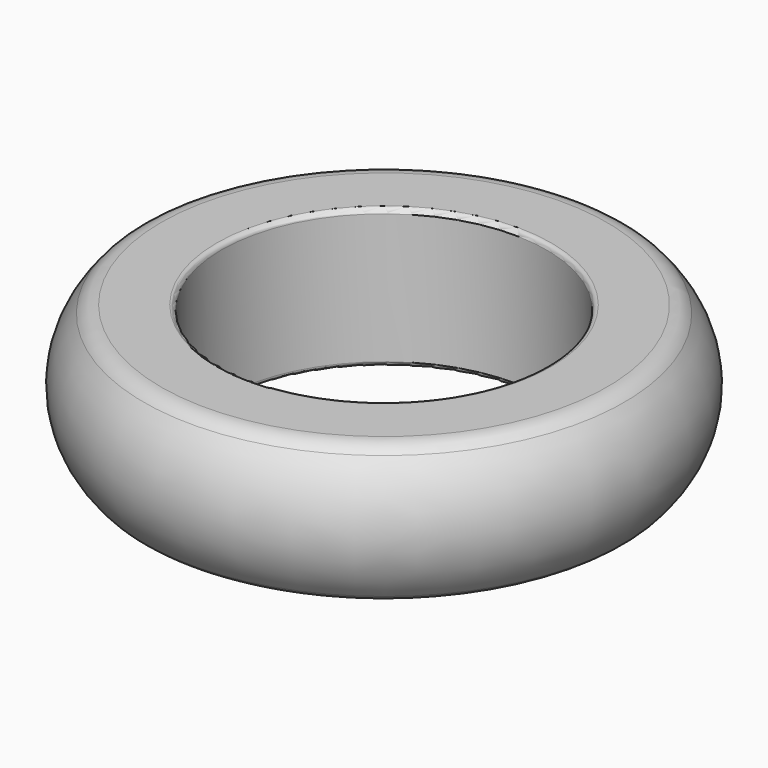
from build123d import *


with BuildPart() as f1:
    # F0 (on Front) → F1 (revolve)
    with BuildSketch(Plane.XZ):
        with BuildLine():
            ThreePointArc((-0.2, 0), (-0.058579, 0.058579), (0, 0.2))
            Line((0, 0.2), (0, 5.8))
            ThreePointArc((0, 5.8), (-0.058579, 5.941421), (-0.2, 6))
            Line((-0.2, 6), (-2.590317, 6))
            ThreePointArc((-2.590317, 6), (-2.998565, 5.912871), (-3.335673, 5.666667))
            ThreePointArc((-3.335673, 5.666667), (-4.354249, 3), (-3.335673, 0.333333))
            ThreePointArc((-3.335673, 0.333333), (-2.998565, 0.087129), (-2.590317, 0))
            Line((-2.590317, 0), (-0.2, 0))
        make_face()
    revolve(axis=Axis((7, 0, 3), (0, 0, 1)))


solid = f1.part
